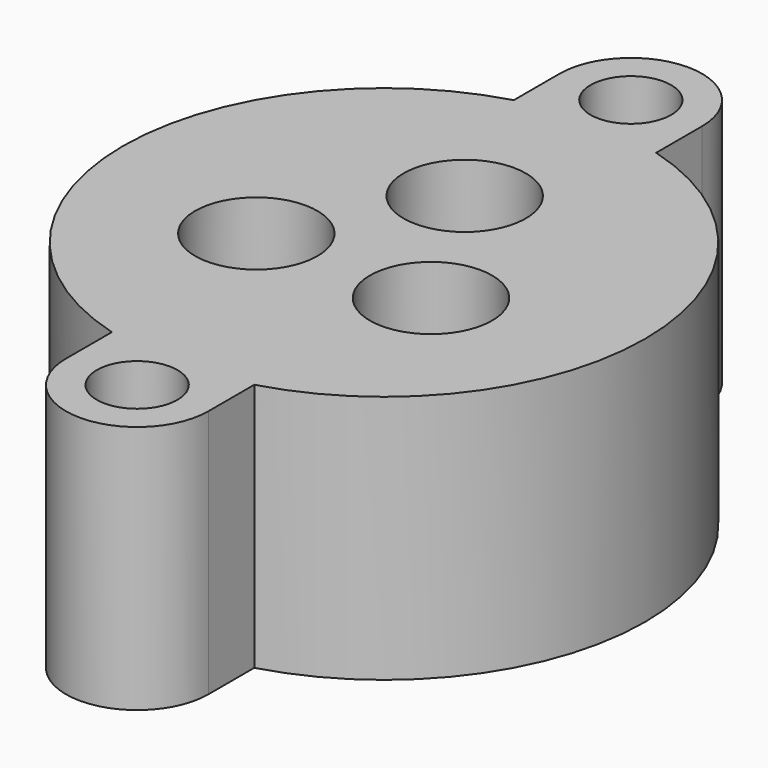
from build123d import *

# Parameters (mm, degrees)
CYLINDER150_R       = 1.7
CYLINDER150_DEPTH   = 11
CYLINDER154_R       = 7.14375
CYLINDER154_DEPTH   = 2.38125
CYLINDER155_R       = 9.525
CYLINDER155_DEPTH   = 2.38125
CYLINDER157_R       = 2.2
CYLINDER157_DEPTH   = 9
CYLINDER156_R       = 0.8
CYLINDER156_DEPTH   = 5
CYLINDER147_R       = 2.575
CYLINDER147_DEPTH   = 6
ARRAY_COUNT         = 3
CYLINDER151_R       = 1.7
CYLINDER151_DEPTH   = 11
BOX001_W            = 3
BOX001_H            = 6
BOX001_DEPTH        = 10.5
BOX_W               = 3
BOX_H               = 6
BOX_DEPTH           = 10.5
CYLINDER_R          = 3
CYLINDER_DEPTH      = 10.5
CYLINDER153_R       = 11
CYLINDER153_DEPTH   = 10.5
CYLINDER158_R       = 3
CYLINDER158_DEPTH   = 10.5
CUT_PLACEMENT_ANGLE = 90


with BuildPart() as obj1:
    # Cylinder150 → Cylinder150 (new body)
    with BuildSketch(Plane(origin=(-13, 0, 0), x_dir=(1, 0, 0), z_dir=(0, 0, 1))):
        Circle(CYLINDER150_R)
    extrude(amount=CYLINDER150_DEPTH)


with BuildPart() as cylinder008:
    # Cylinder154 → Cylinder154 (new body)
    with BuildSketch(Plane.XY):
        Circle(CYLINDER154_R)
    extrude(amount=CYLINDER154_DEPTH)


with BuildPart() as oring:
    # Cylinder155 → Cylinder155 (new body)
    with BuildSketch(Plane.XY):
        Circle(CYLINDER155_R)
    extrude(amount=CYLINDER155_DEPTH)

    # Cut019: cut Cylinder008
    add(cylinder008.part, mode=Mode.SUBTRACT)


with BuildPart() as oring_1:
    # Cut019 placement: moved
    add(oring.part.moved(Location((0, 0, -0.75))))


with BuildPart() as sealsubtraction:
    # Cylinder157 → Cylinder157 (new body)
    with BuildSketch(Plane.XY.offset(1.3)):
        Circle(CYLINDER157_R)
    extrude(amount=CYLINDER157_DEPTH)


with BuildPart() as bottomwireoutlet:
    # Cylinder156 → Cylinder156 (new body)
    with BuildSketch(Plane.XY.offset(-2)):
        Circle(CYLINDER156_R)
    extrude(amount=CYLINDER156_DEPTH)


with BuildPart() as sealarray:
    # Cylinder147 → Cylinder147 (new body)
    with BuildSketch(Plane.XY.offset(4.5)):
        Circle(CYLINDER147_R)
    extrude(amount=CYLINDER147_DEPTH)

    # Fusion: union SealSubtraction, BottomWireOutlet
    add(sealsubtraction.part)
    add(bottomwireoutlet.part)


with BuildPart() as sealarray_1:
    # Fusion placement: moved
    add(sealarray.part.moved(Location((4.25, 0, 0))))

    # Array: SealArray ×3 about axis
    array_axis = Axis((0, 0, 0), (0, 0, 1))


with BuildPart() as sealarray_2:
    add(sealarray_1.part)
    for i in range(1, ARRAY_COUNT):
        add(sealarray_1.part.rotate(array_axis, i * 360 / ARRAY_COUNT))


with BuildPart() as fusion002:
    # Cylinder151 → Cylinder151 (new body)
    with BuildSketch(Plane(origin=(13, 0, 0), x_dir=(1, 0, 0), z_dir=(0, 0, 1))):
        Circle(CYLINDER151_R)
    extrude(amount=CYLINDER151_DEPTH)

    # Fusion002: union obj1, Oring, SealArray
    add(obj1.part)
    add(oring_1.part)
    add(sealarray_2.part)


with BuildPart() as mountcube002:
    # Box001 → Box001 (new body)
    with BuildSketch(Plane(origin=(10, -3, 0), x_dir=(1, 0, 0), z_dir=(0, 0, 1))):
        with Locations((1.5, 3)):
            Rectangle(BOX001_W, BOX001_H)
    extrude(amount=BOX001_DEPTH)


with BuildPart() as mountcube1:
    # Box → Box (new body)
    with BuildSketch(Plane(origin=(-13, -3, 0), x_dir=(1, 0, 0), z_dir=(0, 0, 1))):
        with Locations((1.5, 3)):
            Rectangle(BOX_W, BOX_H)
    extrude(amount=BOX_DEPTH)


with BuildPart() as mountflange1:
    # Cylinder → Cylinder (new body)
    with BuildSketch(Plane(origin=(-13, 0, 0), x_dir=(1, 0, 0), z_dir=(0, 0, 1))):
        Circle(CYLINDER_R)
    extrude(amount=CYLINDER_DEPTH)


with BuildPart() as body:
    # Cylinder153 → Cylinder153 (new body)
    with BuildSketch(Plane.XY):
        Circle(CYLINDER153_R)
    extrude(amount=CYLINDER153_DEPTH)


with BuildPart() as base_cut001:
    # Cylinder158 → Cylinder158 (new body)
    with BuildSketch(Plane(origin=(13, 0, 0), x_dir=(1, 0, 0), z_dir=(0, 0, 1))):
        Circle(CYLINDER158_R)
    extrude(amount=CYLINDER158_DEPTH)

    # Fusion001: union MountCube002, MountCube1, MountFlange1, Body
    add(mountcube002.part)
    add(mountcube1.part)
    add(mountflange1.part)
    add(body.part)

    # Cut: cut Fusion002
    add(fusion002.part, mode=Mode.SUBTRACT)


with BuildPart() as base_cut001_1:
    # Cut placement: moved
    add(base_cut001.part.moved(Location((0, 0, -10.5))).rotate(Axis((0, 0, -10.5), (0, 0, 1)), CUT_PLACEMENT_ANGLE))


solid = base_cut001_1.part
